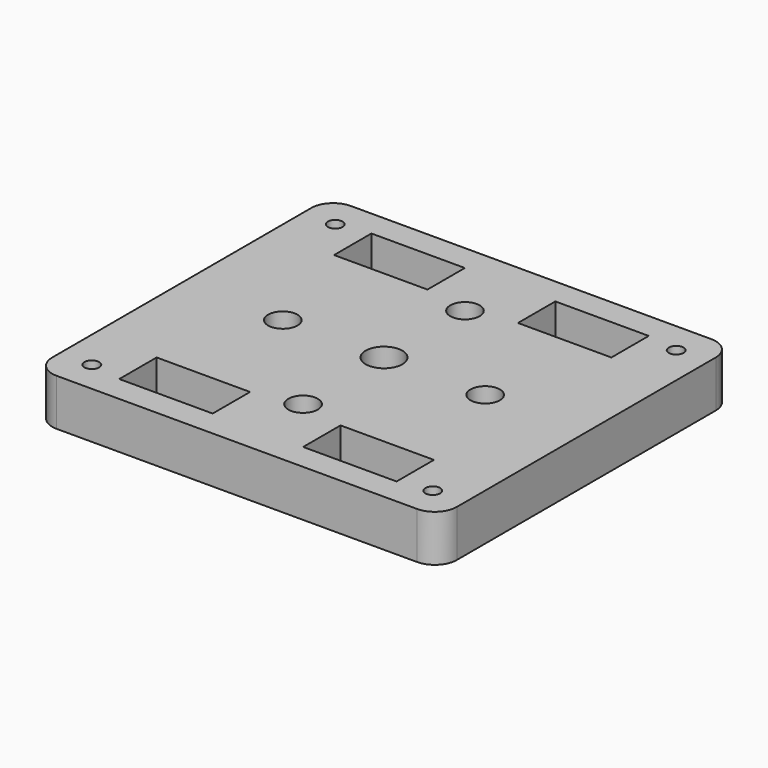
from build123d import *

# Parameters (mm, degrees)
F0_W     = 12.7
F0_H     = 6.35
F1_DEPTH = 6.35
F2_R     = 3
F3_D     = 5
F4_D     = 4
F5_D     = 2


with BuildPart() as f1:
    # F0 (on Top) → F1 (new body)
    with BuildSketch(Plane.XY):
        Polygon((0, 25), (-27.5, 25), (-27.5, -25), (27.5, -25), (27.5, 25), align=None)
        with Locations((-12.5, -18.25)):
            Rectangle(F0_W, F0_H, mode=Mode.SUBTRACT)
        with Locations((12.5, -18.25)):
            Rectangle(F0_W, F0_H, mode=Mode.SUBTRACT)
        with Locations((-12.5, 18.25)):
            Rectangle(F0_W, F0_H, mode=Mode.SUBTRACT)
        with Locations((12.5, 18.25)):
            Rectangle(F0_W, F0_H, mode=Mode.SUBTRACT)
    extrude(amount=F1_DEPTH)

    # F2
    f2_edges = [f1.edges().sort_by_distance(p)[0] for p in [
        (27.5, -25, 3.175),
        (27.5, 25, 3.175),
        (-27.5, -25, 3.175),
        (-27.5, 25, 3.175),
    ]]
    fillet(f2_edges, radius=F2_R)

    # F3 (through all)
    with Locations(Plane(origin=(0, 0, 0), x_dir=(1, 0, 0), z_dir=(0, 0, -1))):
        with Locations((0, 0)):
            Hole(F3_D / 2)

    # F4 (through all)
    with Locations(Plane(origin=(0, 0, 0), x_dir=(1, 0, 0), z_dir=(0, 0, -1))):
        with Locations((-13.755, 0), (0, -13.755), (13.755, 0), (0, 13.755)):
            Hole(F4_D / 2)

    # F5 (through all)
    with Locations(Plane(origin=(0, 0, 0), x_dir=(1, 0, 0), z_dir=(0, 0, -1))):
        with Locations((-23.175, 20.675), (23.175, 20.675), (23.175, -20.675), (-23.175, -20.675)):
            Hole(F5_D / 2)


solid = f1.part
